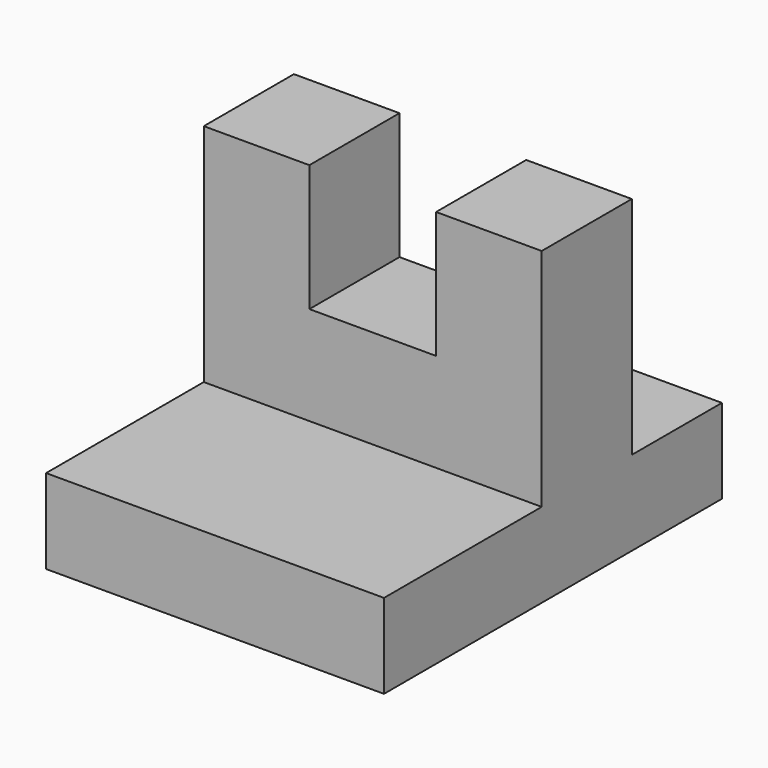
from build123d import *

# Parameters (mm, degrees)
F0_W     = 76.2
F0_H     = 95.25
F1_DEPTH = 19.05
F2_W     = 25.4
F2_H     = 50.8
F3_DEPTH = 76.2
F6_W     = 28.575
F6_H     = 28.575
F7_DEPTH = 127


with BuildPart() as f1:
    # F0 (on Top) → F1 (new body)
    with BuildSketch(Plane.XY):
        Rectangle(F0_W, F0_H)
    extrude(amount=F1_DEPTH)

    # F2 (on face) → F3 (join, through all)
    with BuildSketch(Plane.YZ.offset(38.1)):
        with Locations((9.525, 44.45)):
            Rectangle(F2_W, F2_H)
    extrude(amount=-F3_DEPTH)

    # F6 (on face) → F7 (cut)
    with BuildSketch(Plane.XZ.offset(3.175)):
        with Locations((0, 55.5625)):
            Rectangle(F6_W, F6_H)
    extrude(amount=-F7_DEPTH, mode=Mode.SUBTRACT)


solid = f1.part
